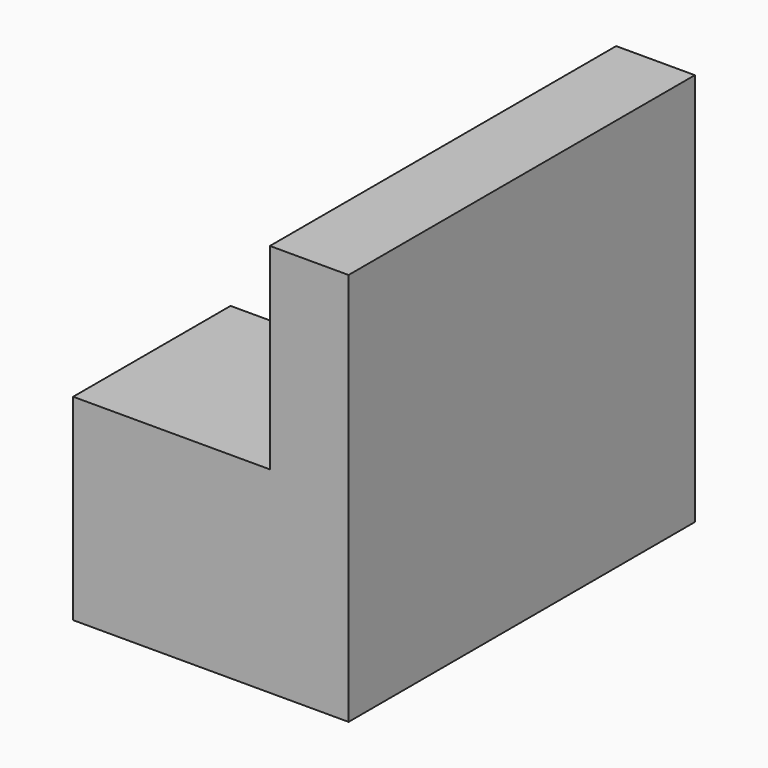
from build123d import *

# Parameters (mm, degrees)
F0_W     = 55
F0_H     = 50
F1_DEPTH = 10
F2_W     = 25
F2_H     = 25
F3_DEPTH = 25
F4_W     = 30
F4_H     = 20
F5_DEPTH = 5


with BuildPart() as f1:
    # F0 (on Right) → F1 (new body)
    with BuildSketch(Plane.YZ):
        with Locations((-16.749154, 0.995111)):
            Rectangle(F0_W, F0_H)
        with Locations((-16.749154, 0.995111)):
            Rectangle(F0_W, F0_H)
    extrude(amount=F1_DEPTH)

    # F2 (on face) → F3 (join)
    with BuildSketch(Plane(origin=(0, 0, 0), x_dir=(0, -1, 0), z_dir=(-1, 0, 0))):
        with Locations((31.749154, -11.504889)):
            Rectangle(F2_W, F2_H)
    extrude(amount=F3_DEPTH)

    # F4 (on face) → F5 (join)
    with BuildSketch(Plane(origin=(0, 0, 0), x_dir=(0, -1, 0), z_dir=(-1, 0, 0))):
        with Locations((4.249154, -14.004889)):
            Rectangle(F4_W, F4_H)
    extrude(amount=F5_DEPTH)


solid = f1.part
